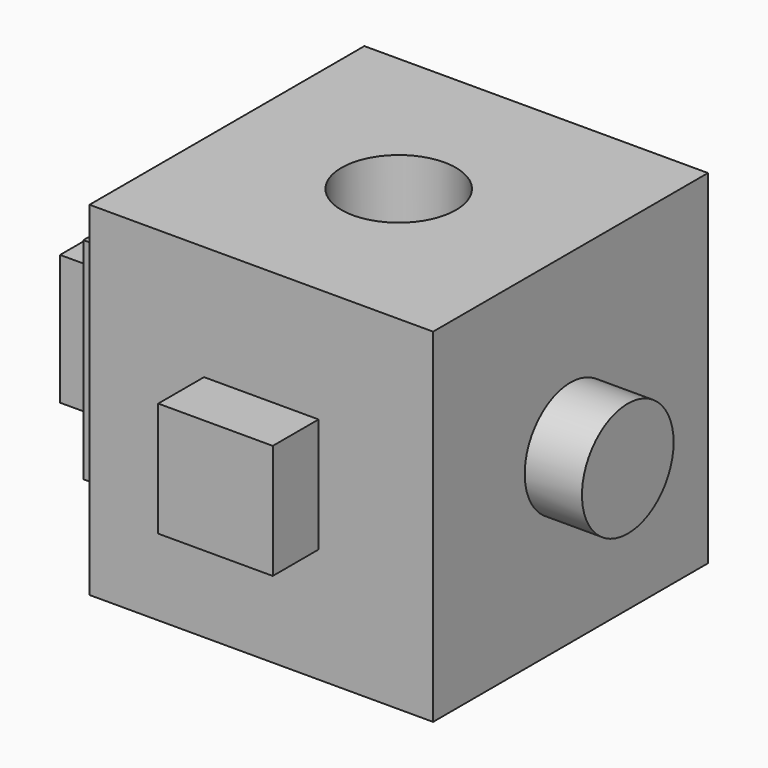
from build123d import *

# Parameters (mm, degrees)
F0_W      = 76.2
F0_H      = 76.2
F1_DEPTH  = 76.2
F2_W      = 25.4
F2_H      = 25.4
F3_DEPTH  = 12.7
F4_R      = 12.7
F5_DEPTH  = 12.7
F7_D      = 25.4
F8_W      = 49.319143
F8_H      = 46.700371
F9_DEPTH  = 12.7
F10_W     = 29.316643
F10_H     = 28.858568
F11_DEPTH = 12.7


with BuildPart() as f1:
    # F0 (on Front) → F1 (new body)
    with BuildSketch(Plane.XZ):
        with Locations((3.721774, 0.220706)):
            Rectangle(F0_W, F0_H)
    extrude(amount=F1_DEPTH)

    # F2 (on face) → F3 (join)
    with BuildSketch(Plane.XZ.offset(76.2)):
        with Locations((3.721774, 0.220706)):
            Rectangle(F2_W, F2_H)
    extrude(amount=F3_DEPTH)

    # F4 (on face) → F5 (join)
    with BuildSketch(Plane.YZ.offset(41.821774)):
        with Locations((-38.1, 0.220706)):
            Circle(F4_R)
    extrude(amount=F5_DEPTH)

    # F7 (through all)
    with Locations(Plane.XY.offset(38.320706)):
        with Locations((3.721774, -38.1)):
            Hole(F7_D / 2)

    # F8 (on face) → F9 (join)
    with BuildSketch(Plane(origin=(-34.378226, 0, 0), x_dir=(0, -1, 0), z_dir=(-1, 0, 0))):
        with Locations((37.359572, -1.829109)):
            Rectangle(F8_W, F8_H)
    extrude(amount=F9_DEPTH)

    # F10 (on face) → F11 (join)
    with BuildSketch(Plane(origin=(-47.078226, 0, 0), x_dir=(0, -1, 0), z_dir=(-1, 0, 0))):
        with Locations((37.96064, -3.749257)):
            Rectangle(F10_W, F10_H)
    extrude(amount=F11_DEPTH)


solid = f1.part
